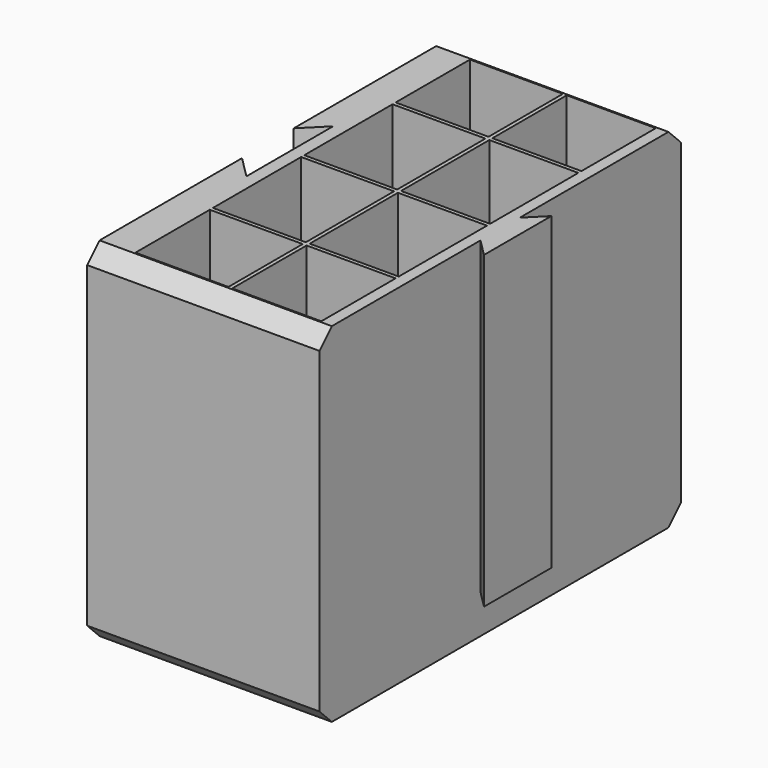
from build123d import *

# Parameters (mm, degrees)
F0_W     = 0.5
F0_H     = 14.25
F0_H_2   = 12
F0_W_2   = 11.5
F0_H_3   = 0.5
F0_W_3   = 12
F1_DEPTH = 40
F2_DEPTH = 5
F3_SIZE  = 2
F5_DEPTH = 0.5


with BuildPart() as f1:
    # F0 (on Top) → F1 (new body)
    with BuildSketch(Plane.XY):
        Polygon((17.2627416998, 5.4343145751), (15, 3.1715728753), (15, -3.1715728753), (17.2627416998, -5.4343145751), (17.2627416998, -0.5656854249), (17.2627416998, 0.5656854249), align=None)
        Polygon((-15, 29.1715728753), (-15, 4.1715728753), (-12.1715728752, 7), (-12.1715728752, 0), (-12.1715728752, -7), (-15, -4.1715728753), (-15, -29.1715728753), (15, -29.1715728753), (15, -3.1715728753), (15, 3.1715728753), (15, 29.1715728753), align=None)
        Polygon((-10.4999961331, 14.999999851), (-10.4999961331, 26.999999851), (1.5000038669, 26.999999851), (2.0000038669, 26.999999851), (13.5000038669, 26.999999851), (13.5000038669, 14.999999851), (13.5000038669, 14.499999851), (13.5000038669, 0.249999851), (13.5000038669, -0.250000149), (13.5000038669, -14.500000149), (13.5000038669, -15.000000149), (13.5000038669, -27.000000149), (2.0000038669, -27.000000149), (1.5000038669, -27.000000149), (-10.4999961331, -27.000000149), (-10.4999961331, -15.000000149), (-10.4999961331, -14.500000149), (-10.4999961331, -0.250000149), (-10.4999961331, 0.249999851), (-10.4999961331, 14.499999851), align=None, mode=Mode.SUBTRACT)
        with Locations((1.7500038669, -7.375000149)):
            Rectangle(F0_W, F0_H)
        with Locations((1.7500038669, 20.999999851)):
            Rectangle(F0_W, F0_H_2)
        with Locations((7.7500038669, 14.749999851)):
            Rectangle(F0_W_2, F0_H_3)
        with Locations((-4.4999961331, -1.49e-07)):
            Rectangle(F0_W_3, F0_H_3)
        with Locations((7.7500038669, -1.49e-07)):
            Rectangle(F0_W_2, F0_H_3)
        with Locations((7.7500038669, -14.750000149)):
            Rectangle(F0_W_2, F0_H_3)
        with Locations((-4.4999961331, -14.750000149)):
            Rectangle(F0_W_3, F0_H_3)
        with Locations((-4.4999961331, 14.749999851)):
            Rectangle(F0_W_3, F0_H_3)
        with Locations((1.7500038669, 7.374999851)):
            Rectangle(F0_W, F0_H)
        with Locations((1.7500038669, -21.000000149)):
            Rectangle(F0_W, F0_H_2)
        with Locations((1.7500038669, -14.750000149)):
            Rectangle(F0_W, F0_H_3)
        with Locations((1.7500038669, -1.49e-07)):
            Rectangle(F0_W, F0_H_3)
        with Locations((1.7500038669, 14.749999851)):
            Rectangle(F0_W, F0_H_3)
    extrude(amount=F1_DEPTH)

    # F0 (on Top) → F2 (join)
    with BuildSketch(Plane.XY):
        Polygon((-15, 29.1715728753), (-15, 4.1715728753), (-12.1715728752, 7), (-12.1715728752, 0), (-12.1715728752, -7), (-15, -4.1715728753), (-15, -29.1715728753), (15, -29.1715728753), (15, -3.1715728753), (15, 3.1715728753), (15, 29.1715728753), align=None)
        Polygon((-10.4999961331, 14.999999851), (-10.4999961331, 26.999999851), (1.5000038669, 26.999999851), (2.0000038669, 26.999999851), (13.5000038669, 26.999999851), (13.5000038669, 14.999999851), (13.5000038669, 14.499999851), (13.5000038669, 0.249999851), (13.5000038669, -0.250000149), (13.5000038669, -14.500000149), (13.5000038669, -15.000000149), (13.5000038669, -27.000000149), (2.0000038669, -27.000000149), (1.5000038669, -27.000000149), (-10.4999961331, -27.000000149), (-10.4999961331, -15.000000149), (-10.4999961331, -14.500000149), (-10.4999961331, -0.250000149), (-10.4999961331, 0.249999851), (-10.4999961331, 14.499999851), align=None, mode=Mode.SUBTRACT)
        Polygon((-12.1715728752, 7), (-15, 4.1715728753), (-15, -4.1715728753), (-12.1715728752, -7), (-12.1715728752, 0), align=None)
        with Locations((1.7500038669, -21.000000149)):
            Rectangle(F0_W, F0_H_2)
        with Locations((7.7500038669, -21.000000149)):
            Rectangle(F0_W_2, F0_H_2)
        with Locations((-4.4999961331, -21.000000149)):
            Rectangle(F0_W_3, F0_H_2)
        with Locations((-4.4999961331, -14.750000149)):
            Rectangle(F0_W_3, F0_H_3)
        with Locations((1.7500038669, -14.750000149)):
            Rectangle(F0_W, F0_H_3)
        with Locations((1.7500038669, -7.375000149)):
            Rectangle(F0_W, F0_H)
        with Locations((-4.4999961331, -7.375000149)):
            Rectangle(F0_W_3, F0_H)
        with Locations((7.7500038669, -7.375000149)):
            Rectangle(F0_W_2, F0_H)
        with Locations((7.7500038669, 7.374999851)):
            Rectangle(F0_W_2, F0_H)
        with Locations((-4.4999961331, 7.374999851)):
            Rectangle(F0_W_3, F0_H)
        with Locations((1.7500038669, -1.49e-07)):
            Rectangle(F0_W, F0_H_3)
        with Locations((1.7500038669, 7.374999851)):
            Rectangle(F0_W, F0_H)
        with Locations((7.7500038669, 14.749999851)):
            Rectangle(F0_W_2, F0_H_3)
        with Locations((1.7500038669, 14.749999851)):
            Rectangle(F0_W, F0_H_3)
        with Locations((-4.4999961331, 14.749999851)):
            Rectangle(F0_W_3, F0_H_3)
        with Locations((-4.4999961331, 20.999999851)):
            Rectangle(F0_W_3, F0_H_2)
        with Locations((7.7500038669, 20.999999851)):
            Rectangle(F0_W_2, F0_H_2)
        with Locations((1.7500038669, 20.999999851)):
            Rectangle(F0_W, F0_H_2)
        with Locations((-4.4999961331, -1.49e-07)):
            Rectangle(F0_W_3, F0_H_3)
        with Locations((7.7500038669, -1.49e-07)):
            Rectangle(F0_W_2, F0_H_3)
        with Locations((7.7500038669, -14.750000149)):
            Rectangle(F0_W_2, F0_H_3)
    extrude(amount=-F2_DEPTH)

    # F3
    f3_edges = [f1.edges().sort_by_distance(p)[0] for p in [
        (0, -29.171573, -5),
        (0, 29.171573, -5),
        (0, -29.171573, 40),
        (0, 29.171573, 40),
    ]]
    chamfer(f3_edges, length=F3_SIZE)

    # F4 (on face) → F5 (cut)
    with BuildSketch(Plane(origin=(-12.1715728752, 0, 0), x_dir=(0, -1, 0), z_dir=(-1, 0, 0))):
        with BuildLine():
            Line((0.12, 10.25), (0.12, 10.5))
            ThreePointArc((0.12, 10.5), (-1.8790989856, 8.5600270426), (0, 6.5036032458))
            Line((0, 6.5036032458), (0, 6.7541191335))
            ThreePointArc((0, 6.7541191335), (-1.6289699135, 8.5600353381), (0.12, 10.25))
        make_face()
        with BuildLine():
            Line((0, 8.5), (0, 6.7541191335))
            ThreePointArc((0, 6.7541191335), (0.1250128042, 6.7500071795), (0.25, 6.7548352513))
            Line((0.25, 6.7548352513), (0.25, 8.25))
            Line((0.25, 8.25), (1.8520508076, 8.25))
            ThreePointArc((1.8520508076, 8.25), (1.865506934, 8.3746782406), (1.87, 8.5))
            Line((1.87, 8.5), (0, 8.5))
        make_face()
        with BuildLine():
            Line((0.25, 6.7548352513), (0.25, 6.5042294721))
            ThreePointArc((0.25, 6.5042294721), (1.5794519519, 7.1325205669), (2.12, 8.5))
            Line((2.12, 8.5), (1.87, 8.5))
            ThreePointArc((1.87, 8.5), (1.865506934, 8.3746782406), (1.8520508076, 8.25))
            ThreePointArc((1.8520508076, 8.25), (1.3140216535, 7.2206203491), (0.25, 6.7548352513))
        make_face()
        with BuildLine():
            Line((0, 6.7541191335), (0, 6.5036032458))
            ThreePointArc((0, 6.5036032458), (0.1250097944, 6.5000062745), (0.25, 6.5042294721))
            Line((0.25, 6.5042294721), (0.25, 6.7548352513))
            ThreePointArc((0.25, 6.7548352513), (0.1250128042, 6.7500071795), (0, 6.7541191335))
        make_face()
        with BuildLine():
            ThreePointArc((0.25, 6.5042294721), (0.1250097944, 6.5000062745), (0, 6.5036032458))
            Line((0, 6.5036032458), (0, 5))
            Line((0, 5), (0.25, 5))
            Line((0.25, 5), (0.25, 6.5042294721))
        make_face()
    extrude(amount=-F5_DEPTH, mode=Mode.SUBTRACT)


solid = f1.part
